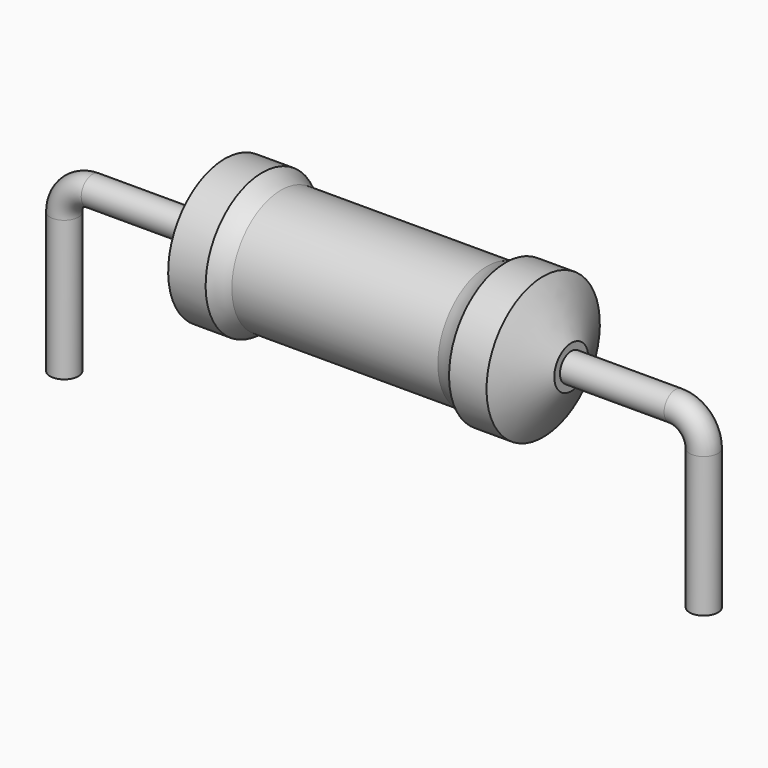
from build123d import *

# Parameters (mm, degrees)
SKETCH_R = 0.45


with BuildPart() as revolution:
    # Sketch002 → Revolution (revolve)
    with BuildSketch(Plane.XZ):
        with BuildLine():
            Line((5.1025, 4.6), (6.2925, 4.6))
            ThreePointArc((6.2925, 4.6), (6.577689, 4.426628), (6.8875, 4.3025))
            Line((6.8875, 4.3025), (13.4325, 4.3025))
            ThreePointArc((13.4325, 4.3025), (13.742311, 4.426628), (14.0275, 4.6))
            Line((14.0275, 4.6), (15.2175, 4.6))
            ThreePointArc((16.11, 3.025), (15.665824, 3.813675), (15.2175, 4.6))
            Line((16.11, 2.35), (16.11, 3.025))
            Line((4.21, 2.35), (16.11, 2.35))
            Line((4.21, 2.35), (4.21, 3.025))
            ThreePointArc((5.1025, 4.6), (4.654176, 3.813675), (4.21, 3.025))
        make_face()
    revolve(axis=Axis((4.21, 0, 2.35), (1, 0, 0)))


with BuildPart() as sweep_body:
    # Sweep: sweep along a path in Sketch001
    with BuildLine(Plane.XZ) as sweep_path:
        Line((0, -3), (0, 1.45))
        ThreePointArc((0, 1.45), (0.263601, 2.086393), (0.899992, 2.35))
        Line((0.899992, 2.35), (19.42, 2.35))
        ThreePointArc((19.42, 2.35), (20.056396, 2.086396), (20.32, 1.45))
        Line((20.32, 1.45), (20.32, -3))
    # Sketch → Sweep (sweep)
    with BuildSketch(Plane.XY.offset(-2)):
        Circle(SKETCH_R)
    sweep(path=sweep_path.line)


solid = Compound([revolution.part, sweep_body.part])
